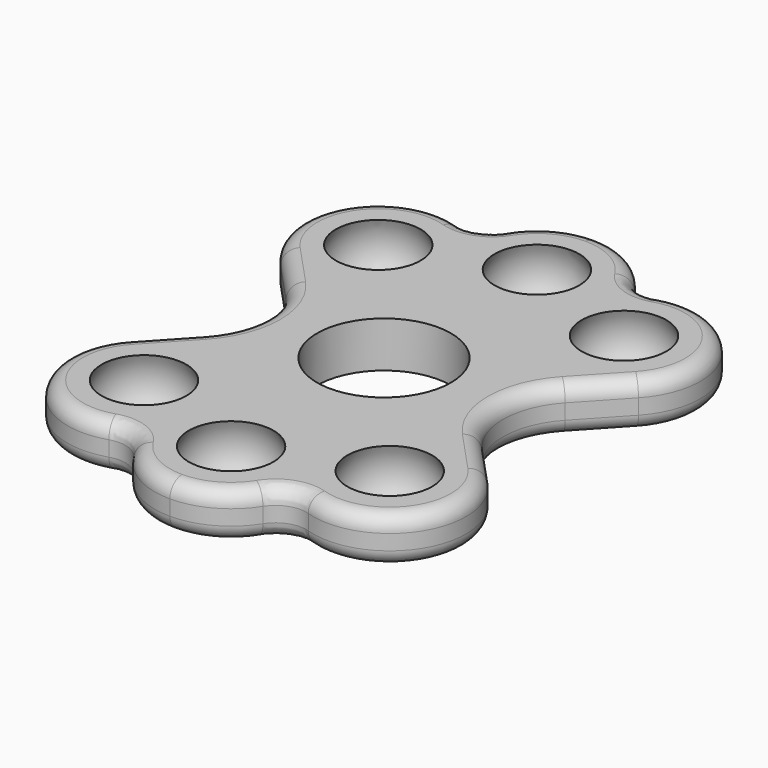
from build123d import *

# Parameters (mm, degrees)
F0_R     = 11.1125
F1_DEPTH = 3.81
F11_R    = 12.7
F12_R    = 5.08
F13_R    = 2.54


with BuildPart() as f1:
    # F0 (on Top) → F1 (new body, symmetric)
    with BuildSketch(Plane.XY):
        with BuildLine():
            Line((15.1613982962, 0), (29.7169323374, 15.6822808436))
            ThreePointArc((29.7169323374, 15.6822808436), (29.7043053157, 32.9751258692), (12.4566341759, 34.2243211207))
            ThreePointArc((12.4566341759, 34.2243211207), (8.0581052912, 41.5661570442), (0, 44.45))
            ThreePointArc((0, 44.45), (-8.0581052912, 41.5661570442), (-12.4566341759, 34.2243211207))
            ThreePointArc((-12.4566341759, 34.2243211207), (-29.7043053157, 32.9751258692), (-29.7169323374, 15.6822808436))
            Line((-29.7169323374, 15.6822808436), (-15.1613982962, 0))
            Line((-15.1613982962, 0), (-29.7169323374, -15.6822808436))
            ThreePointArc((-29.7169323374, -15.6822808436), (-29.7043053157, -32.9751258692), (-12.4566341759, -34.2243211207))
            ThreePointArc((-12.4566341759, -34.2243211207), (-8.0581052912, -41.5661570442), (0, -44.45))
            ThreePointArc((0, -44.45), (8.0581052912, -41.5661570442), (12.4566341759, -34.2243211207))
            ThreePointArc((12.4566341759, -34.2243211207), (29.7043053157, -32.9751258692), (29.7169323374, -15.6822808436))
            Line((29.7169323374, -15.6822808436), (15.1613982962, 0))
        make_face()
        Circle(F0_R, mode=Mode.SUBTRACT)
    extrude(amount=F1_DEPTH, both=True)


with BuildPart() as f5:
    # F4 (on 3pt) → F5 (revolve)
    with BuildSketch(Plane(origin=(0, 0, 0), x_dir=(-0.6427876097, -0.7660444431, 0), z_dir=(-0.7660444431, 0.6427876097, 0))):
        with BuildLine():
            Line((-31.75, -8.001), (-31.75, 8.001))
            ThreePointArc((-31.75, 8.001), (-39.751, 0), (-31.75, -8.001))
        make_face()
    revolve(axis=Axis((20.4085066075, 24.321911069, 22.7892361581), (0, 0, 1)))


with BuildPart() as f7:
    # F6 (on Right) → F7 (revolve)
    with BuildSketch(Plane.YZ):
        with BuildLine():
            ThreePointArc((31.75, -8.001), (39.751, 0), (31.75, 8.001))
            Line((31.75, 8.001), (31.75, -8.001))
        make_face()
    revolve(axis=Axis((0, 31.75, 20.4966645688), (0, 0, 1)))


with BuildPart() as f8_1:
    # F8: instance of F5
    add(f5.part.mirror(Plane.YZ))


with BuildPart() as f9_1:
    # F9: instance of F8_1
    add(f8_1.part.mirror(Plane.XZ))


with BuildPart() as f9_2:
    # F9: instance of F7
    add(f7.part.mirror(Plane.XZ))


with BuildPart() as f9_3:
    # F9: instance of F5
    add(f5.part.mirror(Plane.XZ))


with BuildPart() as f1_1:
    add(f1.part)

    # F10: cut F9_1, F9_2, F9_3, F8_1, F5, F7
    add(f9_1.part, mode=Mode.SUBTRACT)
    add(f9_2.part, mode=Mode.SUBTRACT)
    add(f9_3.part, mode=Mode.SUBTRACT)
    add(f8_1.part, mode=Mode.SUBTRACT)
    add(f5.part, mode=Mode.SUBTRACT)
    add(f7.part, mode=Mode.SUBTRACT)

    # F11
    f11_edges = [f1_1.edges().sort_by_distance(p)[0] for p in [
        (15.161398, 0, 0),
        (-15.161398, 0, -1.905),
        (-15.161398, 0, 1.905),
    ]]
    fillet(f11_edges, radius=F11_R)

    # F12
    f12_edges = [f1_1.edges().sort_by_distance(p)[0] for p in [
        (-12.456634, -34.224321, -1.905),
        (-12.456634, -34.224321, 1.905),
        (12.456634, -34.224321, -1.905),
        (12.456634, -34.224321, 1.905),
        (12.456634, 34.224321, -1.905),
        (12.456634, 34.224321, 1.905),
        (-12.456634, 34.224321, -1.905),
        (-12.456634, 34.224321, 1.905),
    ]]
    fillet(f12_edges, radius=F12_R)

    # F13
    f13_edges = [f1_1.edges().sort_by_distance(p)[0] for p in [
        (19.788711, 0, 3.81),
        (31.13279, -31.124833, -3.81),
        (26.448609, -12.160956, -3.81),
    ]]
    fillet(f13_edges, radius=F13_R)


solid = f1_1.part
